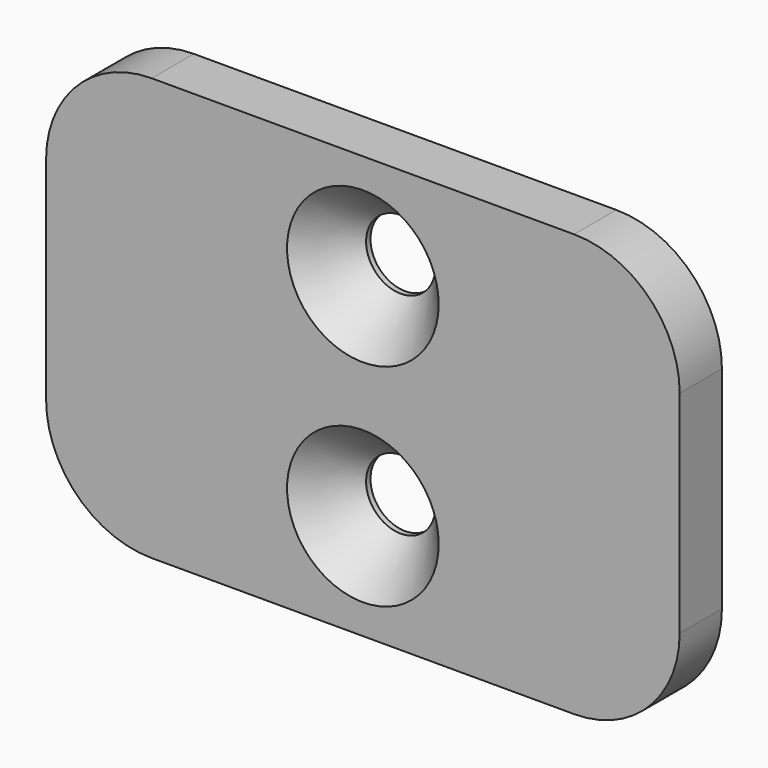
from build123d import *

# Parameters (mm, degrees)
F0_R     = 2.0828
F1_DEPTH = 3.175
F2_SIZE2 = 2.4765
F2_SIZE  = 2.8448


with BuildPart() as f1:
    # F0 (on Front) → F1 (new body)
    with BuildSketch(Plane.XZ):
        with BuildLine():
            ThreePointArc((0, 6.35), (1.859872, 1.859872), (6.35, 0))
            Line((6.35, 0), (31.75, 0))
            ThreePointArc((31.75, 0), (36.240128, 1.859872), (38.1, 6.35))
            Line((38.1, 6.35), (38.1, 19.05))
            ThreePointArc((38.1, 19.05), (36.240128, 23.540128), (31.75, 25.4))
            Line((31.75, 25.4), (6.35, 25.4))
            ThreePointArc((6.35, 25.4), (1.859872, 23.540128), (0, 19.05))
            Line((0, 19.05), (0, 6.35))
        make_face()
        with Locations((19.05, 6.35)):
            Circle(F0_R, mode=Mode.SUBTRACT)
        with Locations((19.05, 19.05)):
            Circle(F0_R, mode=Mode.SUBTRACT)
    extrude(amount=F1_DEPTH)

    # F2
    f2_edges = [f1.edges().sort_by_distance(p)[0] for p in [
        (16.9672, -3.175, 19.05),
        (16.9672, -3.175, 6.35),
    ]]
    chamfer(f2_edges, length=F2_SIZE, length2=F2_SIZE2)


solid = f1.part
